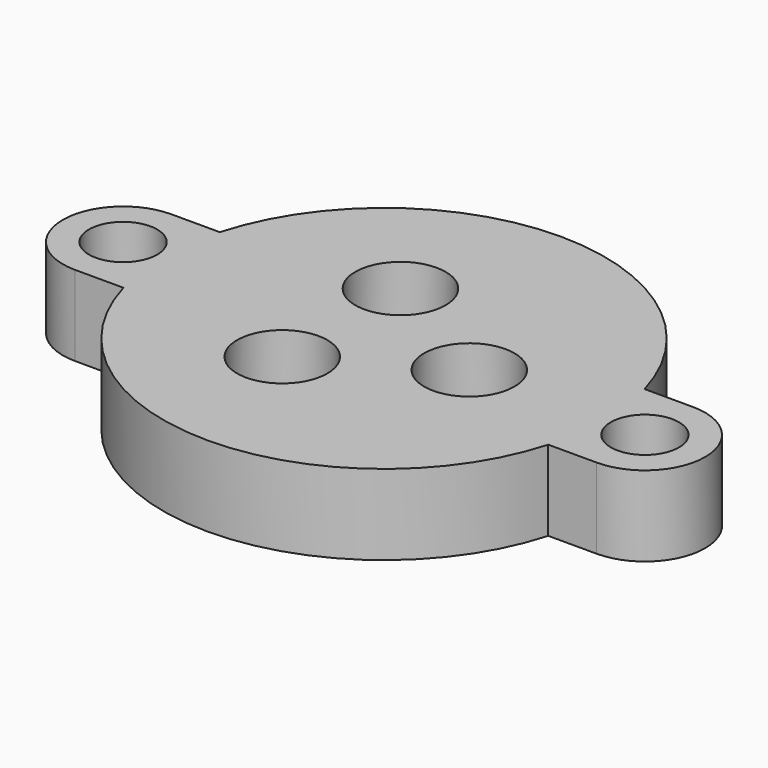
from build123d import *

# Parameters (mm, degrees)
CYLINDER150_R     = 1.7
CYLINDER150_DEPTH = 11
CYLINDER151_R     = 1.7
CYLINDER151_DEPTH = 11
CYLINDER157_R     = 2.25
CYLINDER157_DEPTH = 8
CYLINDER156_R     = 1
CYLINDER156_DEPTH = 5
CYLINDER147_R     = 1
CYLINDER147_DEPTH = 1
ARRAY_COUNT       = 3
BOX_W             = 3
BOX_H             = 6
BOX_DEPTH         = 4
CYLINDER153_R     = 11
CYLINDER153_DEPTH = 4
BOX001_W          = 3
BOX001_H          = 6
BOX001_DEPTH      = 4
CYLINDER158_R     = 3
CYLINDER158_DEPTH = 4
CYLINDER_R        = 3
CYLINDER_DEPTH    = 4


with BuildPart() as obj1:
    # Cylinder150 → Cylinder150 (new body)
    with BuildSketch(Plane(origin=(-13, 0, 0), x_dir=(1, 0, 0), z_dir=(0, 0, 1))):
        Circle(CYLINDER150_R)
    extrude(amount=CYLINDER150_DEPTH)


with BuildPart() as obj2:
    # Cylinder151 → Cylinder151 (new body)
    with BuildSketch(Plane(origin=(13, 0, 0), x_dir=(1, 0, 0), z_dir=(0, 0, 1))):
        Circle(CYLINDER151_R)
    extrude(amount=CYLINDER151_DEPTH)


with BuildPart() as sealsubtraction:
    # Cylinder157 → Cylinder157 (new body)
    with BuildSketch(Plane.XY.offset(1.5)):
        Circle(CYLINDER157_R)
    extrude(amount=CYLINDER157_DEPTH)


with BuildPart() as bottomwireoutlet:
    # Cylinder156 → Cylinder156 (new body)
    with BuildSketch(Plane.XY.offset(-2)):
        Circle(CYLINDER156_R)
    extrude(amount=CYLINDER156_DEPTH)


with BuildPart() as fusion013:
    # Cylinder147 → Cylinder147 (new body)
    with BuildSketch(Plane.XY.offset(4.5)):
        Circle(CYLINDER147_R)
    extrude(amount=CYLINDER147_DEPTH)

    # Fusion: union SealSubtraction, BottomWireOutlet
    add(sealsubtraction.part)
    add(bottomwireoutlet.part)


with BuildPart() as fusion013_1:
    # Fusion placement: moved
    add(fusion013.part.moved(Location((4.25, 0, 0))))

    # Array: Fusion013 ×3 about axis
    array_axis = Axis((0, 0, 0), (0, 0, 1))


with BuildPart() as fusion013_2:
    add(fusion013_1.part)
    for i in range(1, ARRAY_COUNT):
        add(fusion013_1.part.rotate(array_axis, i * 360 / ARRAY_COUNT))

    # Fusion013: union obj1, obj2
    add(obj1.part)
    add(obj2.part)


with BuildPart() as mountcube1:
    # Box → Box (new body)
    with BuildSketch(Plane(origin=(-13, -3, 0), x_dir=(1, 0, 0), z_dir=(0, 0, 1))):
        with Locations((1.5, 3)):
            Rectangle(BOX_W, BOX_H)
    extrude(amount=BOX_DEPTH)


with BuildPart() as body:
    # Cylinder153 → Cylinder153 (new body)
    with BuildSketch(Plane.XY):
        Circle(CYLINDER153_R)
    extrude(amount=CYLINDER153_DEPTH)


with BuildPart() as mountcube002:
    # Box001 → Box001 (new body)
    with BuildSketch(Plane(origin=(10, -3, 0), x_dir=(1, 0, 0), z_dir=(0, 0, 1))):
        with Locations((1.5, 3)):
            Rectangle(BOX001_W, BOX001_H)
    extrude(amount=BOX001_DEPTH)


with BuildPart() as mountflange002:
    # Cylinder158 → Cylinder158 (new body)
    with BuildSketch(Plane(origin=(13, 0, 0), x_dir=(1, 0, 0), z_dir=(0, 0, 1))):
        Circle(CYLINDER158_R)
    extrude(amount=CYLINDER158_DEPTH)


with BuildPart() as cut:
    # Cylinder → Cylinder (new body)
    with BuildSketch(Plane(origin=(-13, 0, 0), x_dir=(1, 0, 0), z_dir=(0, 0, 1))):
        Circle(CYLINDER_R)
    extrude(amount=CYLINDER_DEPTH)

    # Fusion012: union MountCube1, Body, MountCube002, MountFlange002
    add(mountcube1.part)
    add(body.part)
    add(mountcube002.part)
    add(mountflange002.part)

    # Cut: cut Fusion013
    add(fusion013_2.part, mode=Mode.SUBTRACT)


solid = cut.part
